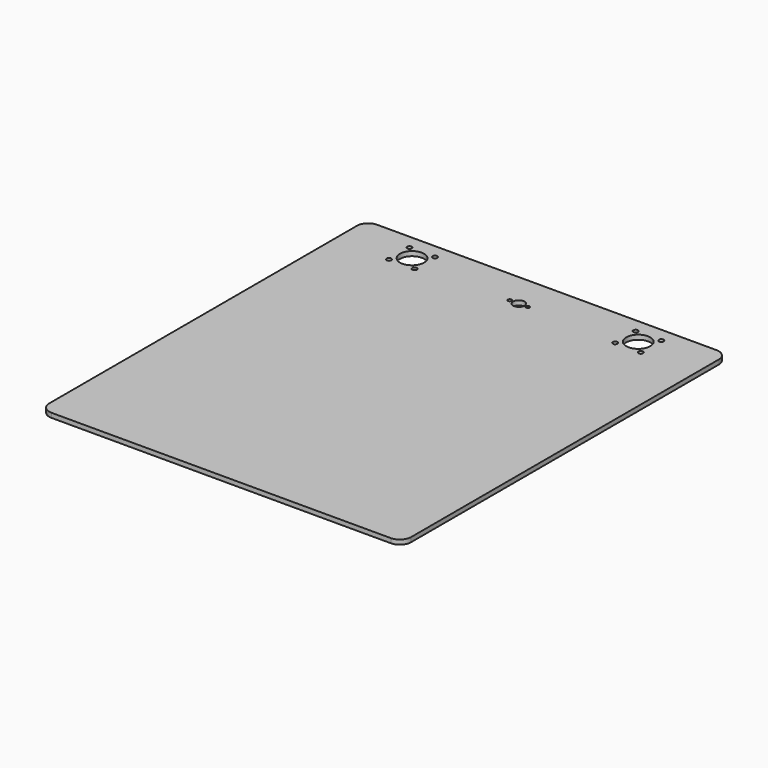
from build123d import *

# Parameters (mm, degrees)
F0_R     = 2.1
F0_R_2   = 10.65
F0_R_3   = 1.6
F0_R_4   = 5
F1_DEPTH = 4


with BuildPart() as f1:
    # F0 (on Top) → F1 (new body)
    with BuildSketch(Plane.XY):
        with BuildLine():
            Line((155.998865, 157.921114), (-144.001135, 157.921114))
            ThreePointArc((-144.001135, 157.921114), (-151.072203, 154.992182), (-154.001135, 147.921114))
            Line((-154.001135, 147.921114), (-154.001135, -192.078886))
            ThreePointArc((-154.001135, -192.078886), (-151.072203, -199.149954), (-144.001135, -202.078886))
            Line((-144.001135, -202.078886), (155.998865, -202.078886))
            ThreePointArc((155.998865, -202.078886), (163.069933, -199.149954), (165.998865, -192.078886))
            Line((165.998865, -192.078886), (165.998865, 147.921114))
            ThreePointArc((165.998865, 147.921114), (163.069933, 154.992182), (155.998865, 157.921114))
        make_face()
        with Locations((-105.314844, 122.607405)):
            Circle(F0_R, mode=Mode.SUBTRACT)
        with Locations((-94.001135, 133.921114)):
            Circle(F0_R_2, mode=Mode.SUBTRACT)
        with Locations((-82.687427, 122.607405)):
            Circle(F0_R, mode=Mode.SUBTRACT)
        with Locations((-105.314844, 145.234822)):
            Circle(F0_R, mode=Mode.SUBTRACT)
        with Locations((-82.687427, 145.234822)):
            Circle(F0_R, mode=Mode.SUBTRACT)
        with Locations((-2.001135, 126.921114)):
            Circle(F0_R_3, mode=Mode.SUBTRACT)
        with Locations((5.998865, 126.921114)):
            Circle(F0_R_4, mode=Mode.SUBTRACT)
        with Locations((13.998865, 126.921114)):
            Circle(F0_R_3, mode=Mode.SUBTRACT)
        with Locations((94.685156, 122.607405)):
            Circle(F0_R, mode=Mode.SUBTRACT)
        with Locations((117.312573, 122.607405)):
            Circle(F0_R, mode=Mode.SUBTRACT)
        with Locations((105.998865, 133.921114)):
            Circle(F0_R_2, mode=Mode.SUBTRACT)
        with Locations((94.685156, 145.234822)):
            Circle(F0_R, mode=Mode.SUBTRACT)
        with Locations((117.312573, 145.234822)):
            Circle(F0_R, mode=Mode.SUBTRACT)
    extrude(amount=F1_DEPTH)


solid = f1.part
